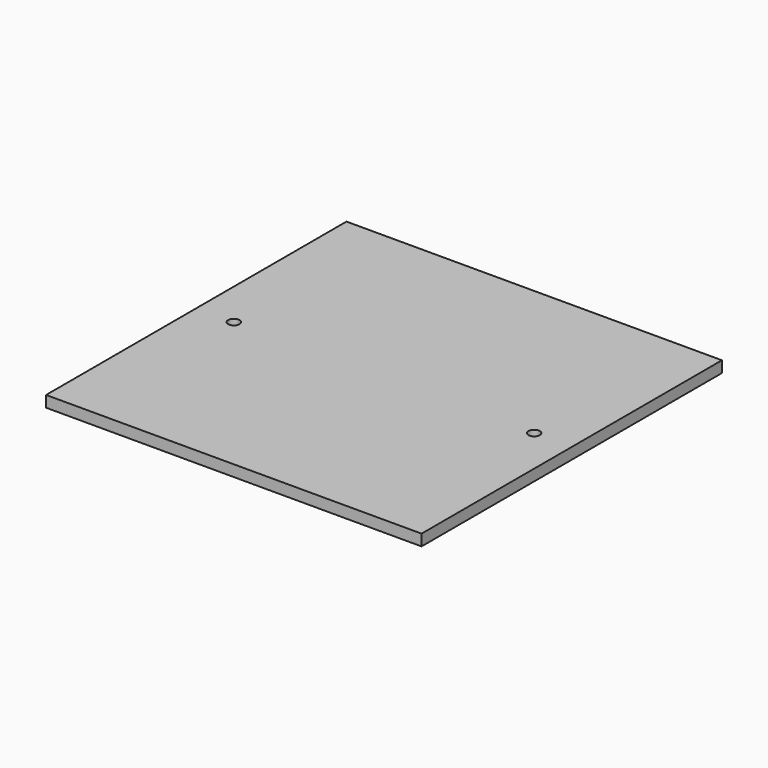
from build123d import *

# Parameters (mm, degrees)
F0_W     = 200
F0_H     = 200
F1_DEPTH = 6
F3_D     = 6


with BuildPart() as f1:
    # F0 (on Top) → F1 (new body)
    with BuildSketch(Plane.XY):
        with Locations((100, 100)):
            Rectangle(F0_W, F0_H)
    extrude(amount=F1_DEPTH)

    # F3 (through all)
    with Locations(Plane.XY.offset(6)):
        with Locations((20, 100), (180, 100)):
            Hole(F3_D / 2)


solid = f1.part
